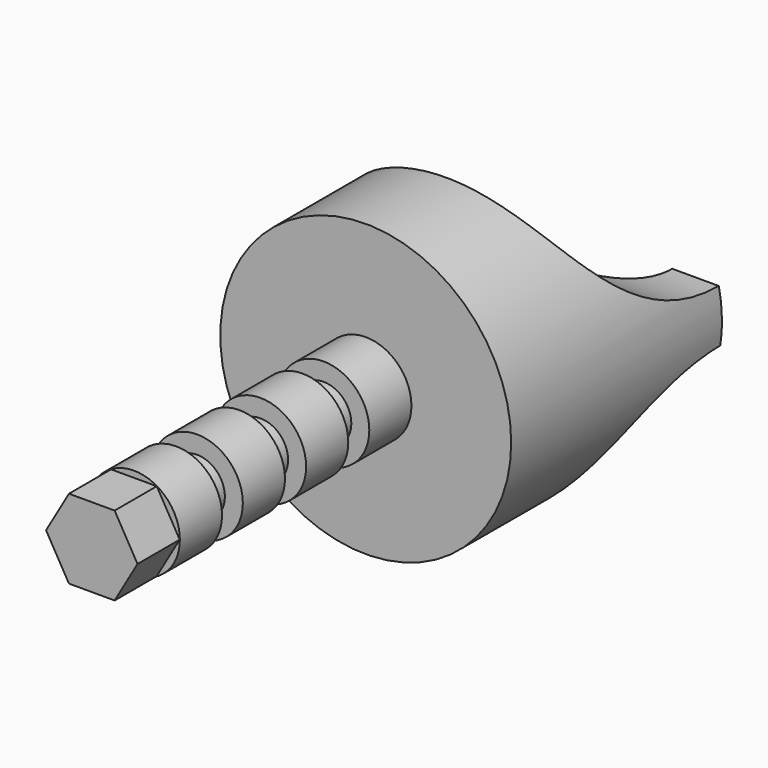
from build123d import *

# Parameters (mm, degrees)
F0_R      = 35.0672788862
F1_DEPTH  = 63.5
F2_R      = 11.0181598278
F3_DEPTH  = 12.7
F4_R      = 6.6894153835
F5_DEPTH  = 69.85
F7_START  = 50.8
F7_DEPTH  = 19.05
F9_START  = 6.35
F8_R      = 11.0281331537
F9_DEPTH  = 12.7
F11_START = 6.35
F10_R     = 11.0120586673
F11_DEPTH = 12.7
F13_START = 6.35
F12_R     = 11.0736476733
F13_DEPTH = 12.7
F18_R     = 23.0898876608
F19_DEPTH = 63.5


with BuildPart() as f1:
    # F0 (on Front) → F1 (new body)
    with BuildSketch(Plane.XZ):
        Circle(F0_R)
    extrude(amount=-F1_DEPTH)

    # F2 (on face) → F3 (join)
    with BuildSketch(Plane.XZ):
        Circle(F2_R)
    extrude(amount=F3_DEPTH)

    # F4 (on face) → F5 (join)
    with BuildSketch(Plane.XZ.offset(12.7)):
        Circle(F4_R)
    extrude(amount=F5_DEPTH)

    # F6 (on face) → F7 (join)
    with BuildSketch(Plane.XZ.offset(12.7).offset(F7_START)):
        Polygon((-5.5090799139, -9.5420063138), (5.5090799139, -9.5420063138), (11.0181598278, 0), (5.5090799139, 9.5420063138), (-5.5090799139, 9.5420063138), (-11.0181598278, 0), align=None)
    extrude(amount=F7_DEPTH)

    # F8 (on face) → F9 (join)
    with BuildSketch(Plane.XZ.offset(12.7).offset(F9_START)):
        Circle(F8_R)
    extrude(amount=F9_DEPTH)

    # F10 (on face) → F11 (join)
    with BuildSketch(Plane.XZ.offset(31.75).offset(F11_START)):
        Circle(F10_R)
    extrude(amount=F11_DEPTH)

    # F12 (on face) → F13 (join)
    with BuildSketch(Plane.XZ.offset(50.8).offset(F13_START)):
        Circle(F12_R)
    extrude(amount=F13_DEPTH)

    # F14 (on face) → F15 (revolve, cut)
    with BuildSketch(Plane(origin=(0, 63.5, 0), x_dir=(-1, 0, 0), z_dir=(0, 1, 0))):
        with BuildLine():
            ThreePointArc((-34.6572299507, -5.3470048278), (0, -35.0672788862), (34.6572299507, -5.3470048278))
            Line((34.6572299507, -5.3470048278), (18.4994737599, -5.3470048278))
            Line((18.4994737599, -5.3470048278), (-18.4994737599, -5.3470048278))
            Line((-18.4994737599, -5.3470048278), (-34.6572299507, -5.3470048278))
        make_face()
    revolve(axis=Axis((-2.320465399, 63.5, -46.4284271002), (-1, 0, 0)), mode=Mode.SUBTRACT)

    # F16 (on face) → F17 (revolve, cut)
    with BuildSketch(Plane(origin=(0, 63.5, 0), x_dir=(-1, 0, 0), z_dir=(0, 1, 0))):
        with BuildLine():
            ThreePointArc((34.3176019657, 7.2122287682), (0, 40.5588116187), (-34.3176019657, 7.2122287682))
            Line((-34.3176019657, 7.2122287682), (34.3176019657, 7.2122287682))
        make_face()
    revolve(axis=Axis((-9.9174939096, 63.5, 48.9058308303), (-1, 0, 0)), mode=Mode.SUBTRACT)

    # F18 (on Top) → F19 (cut, symmetric)
    with BuildSketch(Plane.XY):
        with Locations((0, 63.5572820902)):
            Circle(F18_R)
    extrude(amount=F19_DEPTH, both=True, mode=Mode.SUBTRACT)


solid = f1.part
